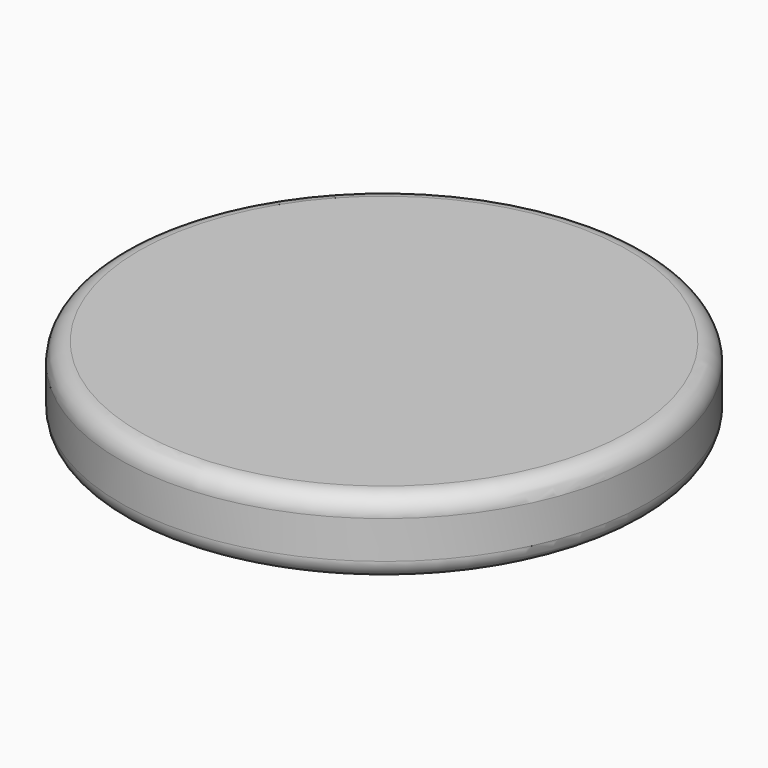
from build123d import *

# Parameters (mm, degrees)
F0_R     = 71.12
F1_DEPTH = 20.32
F2_R     = 63.5
F3_DEPTH = 15.24
F4_R     = 5.08


with BuildPart() as f1:
    # F0 (on Top) → F1 (new body)
    with BuildSketch(Plane.XY):
        with Locations((-28.390646, 29.312419)):
            Circle(F0_R)
    extrude(amount=F1_DEPTH)

    # F2 (on face) → F3 (cut)
    with BuildSketch(Plane(origin=(0, 0, 0), x_dir=(1, 0, 0), z_dir=(0, 0, -1))):
        with Locations((-28.390646, -29.312419)):
            Circle(F2_R)
    extrude(amount=-F3_DEPTH, mode=Mode.SUBTRACT)

    # F4
    f4_edges = [f1.edges().sort_by_distance(p)[0] for p in [
        (-99.510646, 29.312419, 20.32),
        (-99.510646, 29.312419, 0),
    ]]
    fillet(f4_edges, radius=F4_R)


solid = f1.part
